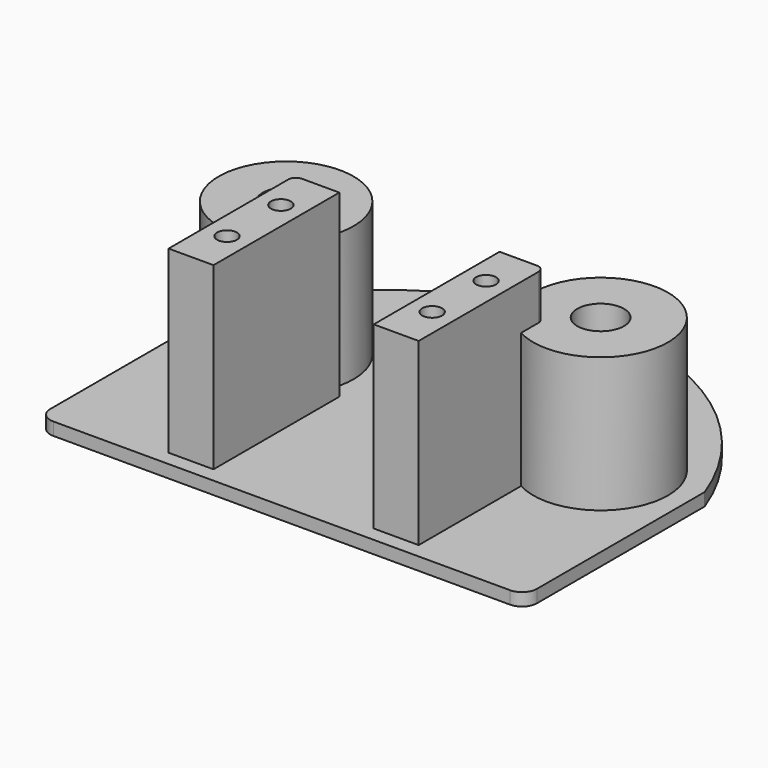
from build123d import *

# Parameters (mm, degrees)
PAD_DEPTH     = 3.4
FILLET_R      = 4
SKETCH001_R   = 18
SKETCH001_R_2 = 6.25
PAD001_DEPTH  = 36
SKETCH002_W   = 12
SKETCH002_H   = 42
SKETCH002_R   = 2.65
PAD002_DEPTH  = 48
FILLET002_R   = 2


with BuildPart() as part:
    # Sketch → Pad (new body)
    with BuildSketch(Plane.XY):
        with BuildLine():
            Line((-65, 0), (-65, -60))
            Line((-65, -60), (65, -60))
            Line((65, -60), (65, 0))
            ThreePointArc((65, 0), (0, 45.409517), (-65, 0))
        make_face()
    extrude(amount=PAD_DEPTH)

    # Fillet
    fillet_edges = [part.edges().sort_by_distance(p)[0] for p in [
        (65, -60, 1.7),
        (-65, -60, 1.7),
    ]]
    fillet(fillet_edges, radius=FILLET_R)

    # Sketch001 (on Face6 of Pad) → Pad001 (join)
    with BuildSketch(Plane.XY.offset(3.4)):
        with Locations((42, -6)):
            Circle(SKETCH001_R)
        with Locations((42, -6)):
            Circle(SKETCH001_R_2, mode=Mode.SUBTRACT)
    pad001 = extrude(amount=PAD001_DEPTH)

    # Mirrored: Pad001 across YZ
    add(pad001.mirror(Plane.YZ))

    # Sketch002 (on Face5 of Mirrored) → Pad002 (join)
    with BuildSketch(Plane.XY.offset(3.4)):
        with Locations((-27.4, -35)):
            Rectangle(SKETCH002_W, SKETCH002_H)
        with Locations((-27.4, -26)):
            Circle(SKETCH002_R, mode=Mode.SUBTRACT)
        with Locations((-27.4, -44)):
            Circle(SKETCH002_R, mode=Mode.SUBTRACT)
    pad002 = extrude(amount=PAD002_DEPTH)

    # Mirrored001: Pad002 across Sketch002 V_Axis
    add(pad002.mirror(Plane(origin=(0, 0, 3.4), x_dir=(0, 0, 1), z_dir=(1, 0, 0))))

    # Fillet002
    fillet002_edges = [part.edges().sort_by_distance(p)[0] for p in [
        (33.4, -14, 45.4),
        (-33.4, -14, 45.4),
    ]]
    fillet(fillet002_edges, radius=FILLET002_R)


solid = part.part
